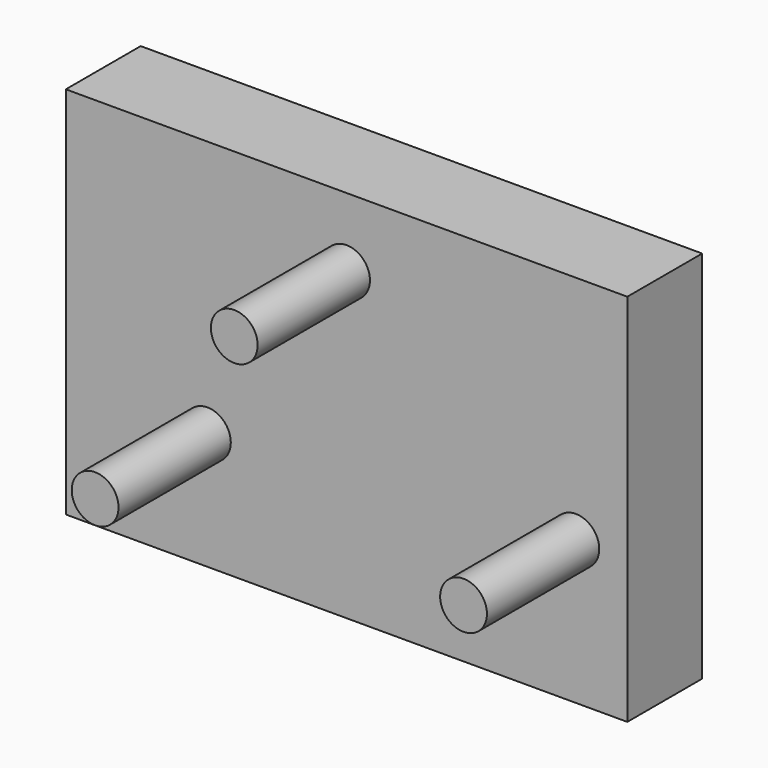
from build123d import *

# Parameters (mm, degrees)
F0_W     = 152.4
F0_H     = 101.6
F1_DEPTH = 25.4
F2_R     = 6.35
F3_DEPTH = 38.1


with BuildPart() as f1:
    # F0 (on Front) → F1 (new body)
    with BuildSketch(Plane.XZ):
        Rectangle(F0_W, F0_H)
    extrude(amount=F1_DEPTH)

    # F2 (on face) → F3 (join)
    with BuildSketch(Plane.XZ.offset(25.4)):
        with Locations((-37.769121, -19.05)):
            Circle(F2_R)
        with Locations((0, 31.996483)):
            Circle(F2_R)
        with Locations((62.23, -11.979272)):
            Circle(F2_R)
    extrude(amount=F3_DEPTH)


solid = f1.part
